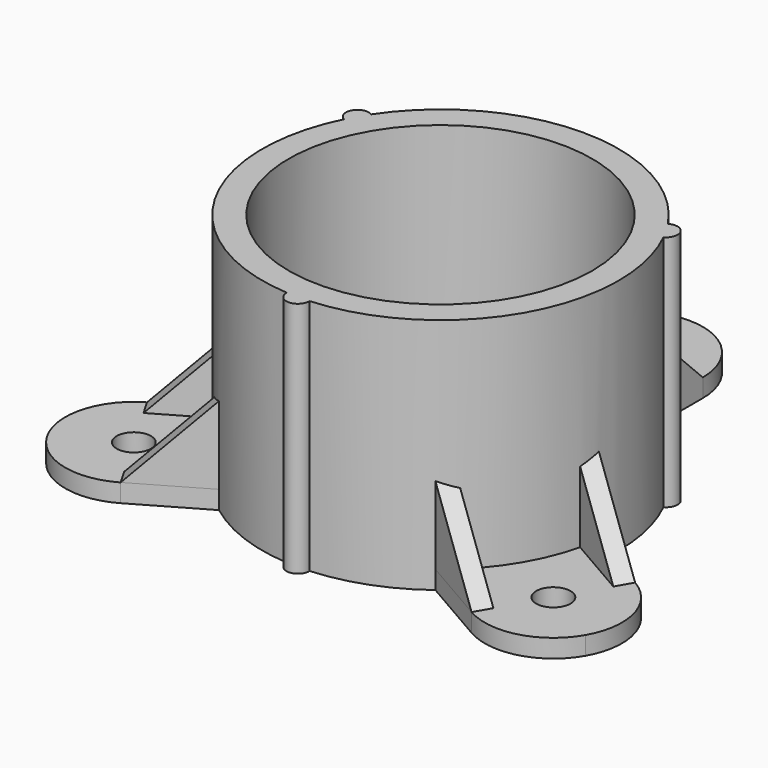
from build123d import *

# Parameters (mm, degrees)
F0_R     = 21.082
F0_R_2   = 2.38125
F1_DEPTH = 2.54
F2_DEPTH = 33.02
F4_DEPTH = 2.54
F6_COUNT = 3
F6_ANGLE = 240


with BuildPart() as f1:
    # F0 (on Top) → F1 (new body)
    with BuildSketch(Plane.XY):
        with BuildLine():
            Line((-9.525, 22.86), (9.525, 22.86))
            ThreePointArc((9.525, 22.86), (0, 24.765), (-9.525, 22.86))
        make_face()
        with BuildLine():
            ThreePointArc((20.6097123392, 13.7311682786), (15.7435419805, 19.1166448654), (9.525, 22.86))
            Line((9.525, 22.86), (-9.525, 22.86))
            ThreePointArc((-9.525, 22.86), (-15.7435419805, 19.1166448654), (-20.6097123392, 13.7311682786))
            ThreePointArc((-20.6097123392, 13.7311682786), (-20.059758407, 13.154112914), (-19.8596191247, 12.3825))
            ThreePointArc((-19.8596191247, 12.3825), (-20.631435956, 11.0205832558), (-22.1963967225, 10.9829503112))
            ThreePointArc((-22.1963967225, 10.9829503112), (-24.4272710788, 4.075984868), (-24.5598407305, -3.181108029))
            Line((-24.5598407305, -3.181108029), (-15.0348407305, -19.678891971))
            ThreePointArc((-15.0348407305, -19.678891971), (-8.6837290983, -23.1926297333), (-1.5866843833, -24.7141185897))
            ThreePointArc((-1.5866843833, -24.7141185897), (0, -23.1775), (1.5866843833, -24.7141185897))
            ThreePointArc((1.5866843833, -24.7141185897), (8.6837290983, -23.1926297333), (15.0348407305, -19.678891971))
            Line((15.0348407305, -19.678891971), (24.5598407305, -3.181108029))
            ThreePointArc((24.5598407305, -3.181108029), (24.7136569602, -1.5938584173), (24.765, 0))
            ThreePointArc((24.765, 0), (24.1143006309, 5.6396569119), (22.1963967225, 10.9829503112))
            ThreePointArc((22.1963967225, 10.9829503112), (20.0723037962, 11.58875), (20.6097123392, 13.7311682786))
        make_face()
        Circle(F0_R, mode=Mode.SUBTRACT)
        with BuildLine():
            ThreePointArc((-9.525, 22.86), (0, 24.765), (9.525, 22.86))
            Line((9.525, 22.86), (9.525, 33.655))
            ThreePointArc((9.525, 33.655), (6.7351920908, 40.3901920908), (0, 43.18))
            ThreePointArc((0, 43.18), (-6.7351920908, 40.3901920908), (-9.525, 33.655))
            Line((-9.525, 33.655), (-9.525, 22.86))
        make_face()
        with Locations((0, 33.655)):
            Circle(F0_R_2, mode=Mode.SUBTRACT)
        with BuildLine():
            ThreePointArc((23.0346191247, 12.3825), (22.2187320387, 13.7698607177), (20.6097123392, 13.7311682786))
            ThreePointArc((20.6097123392, 13.7311682786), (21.4471191247, 12.3825), (22.1963967225, 10.9829503112))
            ThreePointArc((22.1963967225, 10.9829503112), (22.809035869, 11.5668168313), (23.0346191247, 12.3825))
        make_face()
        with BuildLine():
            ThreePointArc((22.1963967225, 10.9829503112), (21.4471191247, 12.3825), (20.6097123392, 13.7311682786))
            ThreePointArc((20.6097123392, 13.7311682786), (20.0723037962, 11.58875), (22.1963967225, 10.9829503112))
        make_face()
        with BuildLine():
            ThreePointArc((-19.8596191247, 12.3825), (-20.059758407, 13.154112914), (-20.6097123392, 13.7311682786))
            ThreePointArc((-20.6097123392, 13.7311682786), (-21.4471191247, 12.3825), (-22.1963967225, 10.9829503112))
            ThreePointArc((-22.1963967225, 10.9829503112), (-20.631435956, 11.0205832558), (-19.8596191247, 12.3825))
        make_face()
        with BuildLine():
            ThreePointArc((-22.1963967225, 10.9829503112), (-21.4471191247, 12.3825), (-20.6097123392, 13.7311682786))
            ThreePointArc((-20.6097123392, 13.7311682786), (-22.8219344532, 13.17625), (-22.1963967225, 10.9829503112))
        make_face()
        with BuildLine():
            Line((-15.0348407305, -19.678891971), (-24.5598407305, -3.181108029))
            ThreePointArc((-24.5598407305, -3.181108029), (-21.4471191247, -12.3825), (-15.0348407305, -19.678891971))
        make_face()
        with BuildLine():
            ThreePointArc((-15.0348407305, -19.678891971), (-21.4471191247, -12.3825), (-24.5598407305, -3.181108029))
            Line((-24.5598407305, -3.181108029), (-33.9085849644, -8.578608029))
            ThreePointArc((-33.9085849644, -8.578608029), (-38.3465284598, -14.3622485954), (-37.3949769354, -21.59))
            ThreePointArc((-37.3949769354, -21.59), (-31.611336369, -26.0279434954), (-24.3835849644, -25.076391971))
            Line((-24.3835849644, -25.076391971), (-15.0348407305, -19.678891971))
        make_face()
        with Locations((-29.1460849644, -16.8275)):
            Circle(F0_R_2, mode=Mode.SUBTRACT)
        with BuildLine():
            Line((33.9085849644, -8.578608029), (24.5598407305, -3.181108029))
            ThreePointArc((24.5598407305, -3.181108029), (21.4471191247, -12.3825), (15.0348407305, -19.678891971))
            Line((15.0348407305, -19.678891971), (24.3835849644, -25.076391971))
            ThreePointArc((24.3835849644, -25.076391971), (31.611336369, -26.0279434954), (37.3949769354, -21.59))
            ThreePointArc((37.3949769354, -21.59), (38.3465284598, -14.3622485954), (33.9085849644, -8.578608029))
        make_face()
        with Locations((29.1460849644, -16.8275)):
            Circle(F0_R_2, mode=Mode.SUBTRACT)
        with BuildLine():
            ThreePointArc((15.0348407305, -19.678891971), (21.4471191247, -12.3825), (24.5598407305, -3.181108029))
            Line((24.5598407305, -3.181108029), (15.0348407305, -19.678891971))
        make_face()
        with BuildLine():
            ThreePointArc((1.5866843833, -24.7141185897), (0, -23.1775), (-1.5866843833, -24.7141185897))
            ThreePointArc((-1.5866843833, -24.7141185897), (0, -24.765), (1.5866843833, -24.7141185897))
        make_face()
        with BuildLine():
            ThreePointArc((1.5866843833, -24.7141185897), (0, -24.765), (-1.5866843833, -24.7141185897))
            ThreePointArc((-1.5866843833, -24.7141185897), (-0.0254439735, -26.3522960827), (1.5875, -24.765))
            ThreePointArc((1.5875, -24.765), (1.5872960827, -24.7395560265), (1.5866843833, -24.7141185897))
        make_face()
        Circle(F0_R)
    extrude(amount=F1_DEPTH)

    # F0 (on Top) → F2 (join)
    with BuildSketch(Plane.XY):
        with BuildLine():
            ThreePointArc((20.6097123392, 13.7311682786), (15.7435419805, 19.1166448654), (9.525, 22.86))
            Line((9.525, 22.86), (-9.525, 22.86))
            ThreePointArc((-9.525, 22.86), (-15.7435419805, 19.1166448654), (-20.6097123392, 13.7311682786))
            ThreePointArc((-20.6097123392, 13.7311682786), (-20.059758407, 13.154112914), (-19.8596191247, 12.3825))
            ThreePointArc((-19.8596191247, 12.3825), (-20.631435956, 11.0205832558), (-22.1963967225, 10.9829503112))
            ThreePointArc((-22.1963967225, 10.9829503112), (-24.4272710788, 4.075984868), (-24.5598407305, -3.181108029))
            Line((-24.5598407305, -3.181108029), (-15.0348407305, -19.678891971))
            ThreePointArc((-15.0348407305, -19.678891971), (-8.6837290983, -23.1926297333), (-1.5866843833, -24.7141185897))
            ThreePointArc((-1.5866843833, -24.7141185897), (0, -23.1775), (1.5866843833, -24.7141185897))
            ThreePointArc((1.5866843833, -24.7141185897), (8.6837290983, -23.1926297333), (15.0348407305, -19.678891971))
            Line((15.0348407305, -19.678891971), (24.5598407305, -3.181108029))
            ThreePointArc((24.5598407305, -3.181108029), (24.7136569602, -1.5938584173), (24.765, 0))
            ThreePointArc((24.765, 0), (24.1143006309, 5.6396569119), (22.1963967225, 10.9829503112))
            ThreePointArc((22.1963967225, 10.9829503112), (20.0723037962, 11.58875), (20.6097123392, 13.7311682786))
        make_face()
        Circle(F0_R, mode=Mode.SUBTRACT)
        with BuildLine():
            Line((-15.0348407305, -19.678891971), (-24.5598407305, -3.181108029))
            ThreePointArc((-24.5598407305, -3.181108029), (-21.4471191247, -12.3825), (-15.0348407305, -19.678891971))
        make_face()
        with BuildLine():
            ThreePointArc((-19.8596191247, 12.3825), (-20.059758407, 13.154112914), (-20.6097123392, 13.7311682786))
            ThreePointArc((-20.6097123392, 13.7311682786), (-21.4471191247, 12.3825), (-22.1963967225, 10.9829503112))
            ThreePointArc((-22.1963967225, 10.9829503112), (-20.631435956, 11.0205832558), (-19.8596191247, 12.3825))
        make_face()
        with BuildLine():
            ThreePointArc((-22.1963967225, 10.9829503112), (-21.4471191247, 12.3825), (-20.6097123392, 13.7311682786))
            ThreePointArc((-20.6097123392, 13.7311682786), (-22.8219344532, 13.17625), (-22.1963967225, 10.9829503112))
        make_face()
        with BuildLine():
            ThreePointArc((22.1963967225, 10.9829503112), (21.4471191247, 12.3825), (20.6097123392, 13.7311682786))
            ThreePointArc((20.6097123392, 13.7311682786), (20.0723037962, 11.58875), (22.1963967225, 10.9829503112))
        make_face()
        with BuildLine():
            ThreePointArc((23.0346191247, 12.3825), (22.2187320387, 13.7698607177), (20.6097123392, 13.7311682786))
            ThreePointArc((20.6097123392, 13.7311682786), (21.4471191247, 12.3825), (22.1963967225, 10.9829503112))
            ThreePointArc((22.1963967225, 10.9829503112), (22.809035869, 11.5668168313), (23.0346191247, 12.3825))
        make_face()
        with BuildLine():
            ThreePointArc((1.5866843833, -24.7141185897), (0, -24.765), (-1.5866843833, -24.7141185897))
            ThreePointArc((-1.5866843833, -24.7141185897), (-0.0254439735, -26.3522960827), (1.5875, -24.765))
            ThreePointArc((1.5875, -24.765), (1.5872960827, -24.7395560265), (1.5866843833, -24.7141185897))
        make_face()
        with BuildLine():
            ThreePointArc((1.5866843833, -24.7141185897), (0, -23.1775), (-1.5866843833, -24.7141185897))
            ThreePointArc((-1.5866843833, -24.7141185897), (0, -24.765), (1.5866843833, -24.7141185897))
        make_face()
        with BuildLine():
            Line((-9.525, 22.86), (9.525, 22.86))
            ThreePointArc((9.525, 22.86), (0, 24.765), (-9.525, 22.86))
        make_face()
        with BuildLine():
            ThreePointArc((15.0348407305, -19.678891971), (21.4471191247, -12.3825), (24.5598407305, -3.181108029))
            Line((24.5598407305, -3.181108029), (15.0348407305, -19.678891971))
        make_face()
    extrude(amount=F2_DEPTH)

    # F3 (on face) → F4 (join)
    with BuildSketch(Plane.YZ.offset(9.525)):
        Polygon((22.86, 13.335), (22.86, 2.54), (33.655, 2.54), align=None)
    extrude(amount=-F4_DEPTH)

    # F5: F1 across plane


with BuildPart() as f1_1:
    add(f1.part)
    add(f1.part.mirror(Plane.YZ))

    # F6: F1 ×3 about axis
    f6_axis = Axis((0, 0, 2.54), (0, 0, -1))


with BuildPart() as f1_2:
    add(f1_1.part)
    for i in range(1, F6_COUNT):
        add(f1_1.part.rotate(f6_axis, i * F6_ANGLE / (F6_COUNT - 1)))


solid = f1_2.part
